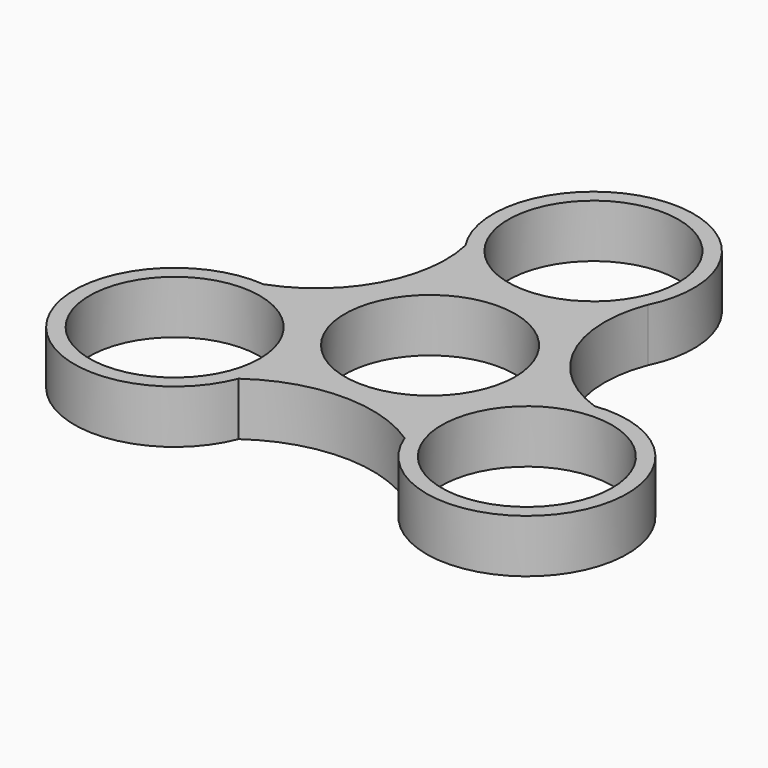
from build123d import *

# Parameters (mm, degrees)
F0_R     = 11.2
F1_DEPTH = 7


with BuildPart() as f1:
    # F0 (on Top) → F1 (new body)
    with BuildSketch(Plane.XY):
        with BuildLine():
            ThreePointArc((21.625784, 0), (12.255437, 8.429614), (11.843592, 21.026923))
            ThreePointArc((11.843592, 21.026923), (-0.81626, 40.029981), (-11.033572, 19.609535))
            ThreePointArc((-11.033572, 19.609535), (-12.726134, 7.726943), (-21.840842, -0.082209))
            ThreePointArc((-21.840842, -0.082209), (-34.223489, -20.173639), (-10.716397, -18.07313))
            ThreePointArc((-10.716397, -18.07313), (0.023136, -14.538759), (10.863265, -17.751381))
            ThreePointArc((10.863265, -17.751381), (34.505409, -19.947117), (21.625784, 0))
        make_face()
        with Locations((-22.996418, -13.23153)):
            Circle(F0_R, mode=Mode.SUBTRACT)
        Circle(F0_R, mode=Mode.SUBTRACT)
        with Locations((23.217955, -13.103625)):
            Circle(F0_R, mode=Mode.SUBTRACT)
        with Locations((0, 26.855243)):
            Circle(F0_R, mode=Mode.SUBTRACT)
    extrude(amount=F1_DEPTH)


solid = f1.part
